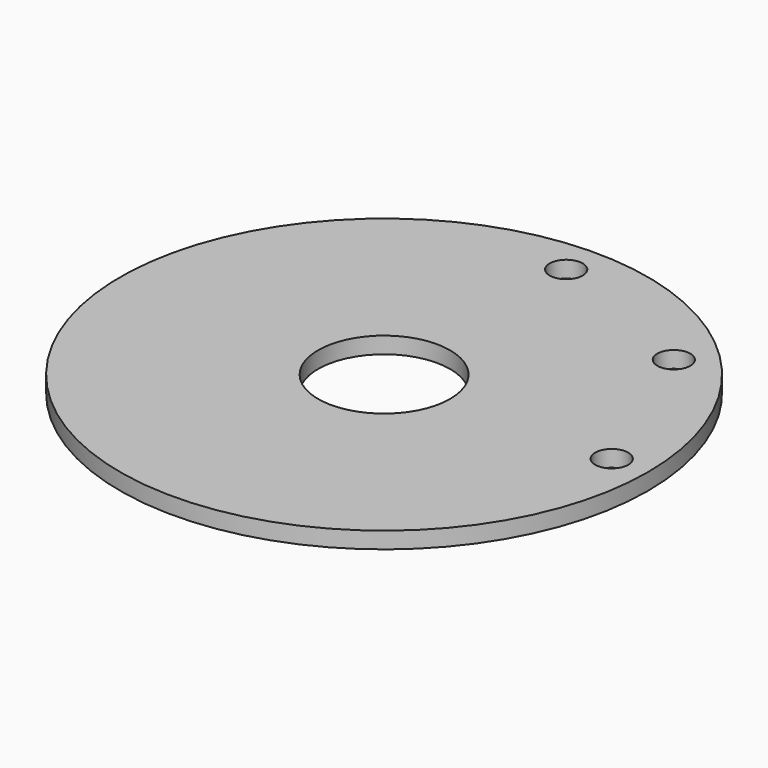
from build123d import *

# Parameters (mm, degrees)
F0_R     = 101.6
F0_R_2   = 25.4
F1_DEPTH = 6.35
F2_R     = 6.35
F3_DEPTH = 6.351


with BuildPart() as f1:
    # F0 (on Top) → F1 (new body)
    with BuildSketch(Plane.XY):
        Circle(F0_R)
        Circle(F0_R_2, mode=Mode.SUBTRACT)
    extrude(amount=F1_DEPTH)

    # F2 (on face) → F3 (cut, through all)
    with BuildSketch(Plane.XY.offset(6.35)):
        with Locations((0, 87.623763)):
            Circle(F2_R)
        with Locations((61.959357, 61.959357)):
            Circle(F2_R)
        with Locations((87.623763, 0)):
            Circle(F2_R)
    extrude(amount=-F3_DEPTH, mode=Mode.SUBTRACT)


solid = f1.part
